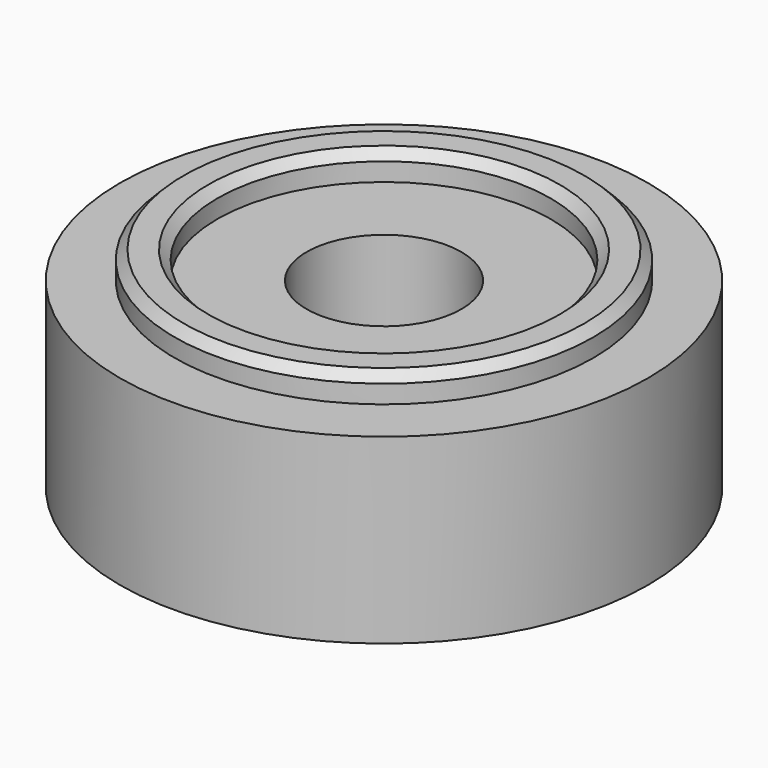
from build123d import *

# Parameters (mm, degrees)
F0_R     = 14.5
F0_R_2   = 11.5
F0_R_3   = 9.15
F0_R_4   = 4.25
F1_DEPTH = 10
F2_DEPTH = 1.5
F3_SIZE  = 0.5


with BuildPart() as f1:
    # F0 (on Top) → F1 (new body)
    with BuildSketch(Plane.XY):
        Circle(F0_R)
        Circle(F0_R_2, mode=Mode.SUBTRACT)
        Circle(F0_R_2)
        Circle(F0_R_3, mode=Mode.SUBTRACT)
        Circle(F0_R_3)
        Circle(F0_R_4, mode=Mode.SUBTRACT)
    extrude(amount=-F1_DEPTH)

    # F0 (on Top) → F2 (join)
    with BuildSketch(Plane.XY):
        Circle(F0_R_2)
        Circle(F0_R_3, mode=Mode.SUBTRACT)
    extrude(amount=F2_DEPTH)

    # F3
    f3_edges = [f1.edges().sort_by_distance(p)[0] for p in [
        (-11.5, 0, 1.5),
        (-9.15, 0, 1.5),
    ]]
    chamfer(f3_edges, length=F3_SIZE)


solid = f1.part
